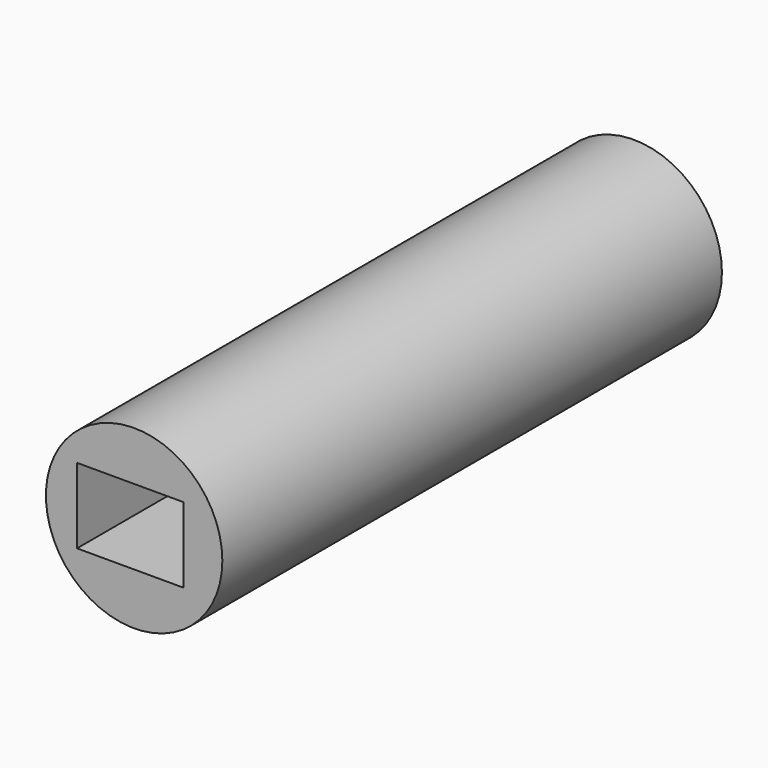
from build123d import *

# Parameters (mm, degrees)
F0_R      = 8.970249
F0_W      = 10.826435
F0_H      = 7.657723
F1_DEPTH  = 50.8
F1_FACE_R = 8.970249
F1_FACE_W = 10.826434
F1_FACE_H = 7.657723
F2_DEPTH  = 12.7


with BuildPart() as f1:
    # F0 (on Front) → F1 (new body)
    with BuildSketch(Plane.XZ):
        Circle(F0_R)
        with Locations((-0.396089, 0.13203)):
            Rectangle(F0_W, F0_H, mode=Mode.SUBTRACT)
    extrude(amount=F1_DEPTH)

    # F1_face (on face) → F2 (join, symmetric)
    with BuildSketch(Plane(origin=(0.193298, -50.8, -0.064433), x_dir=(1, 0, 0), z_dir=(0, -1, 0))):
        with Locations((-0.193298, 0.064433)):
            Circle(F1_FACE_R)
        with Locations((-0.589387, 0.196462)):
            Rectangle(F1_FACE_W, F1_FACE_H, mode=Mode.SUBTRACT)
    extrude(amount=F2_DEPTH, both=True)


solid = f1.part
